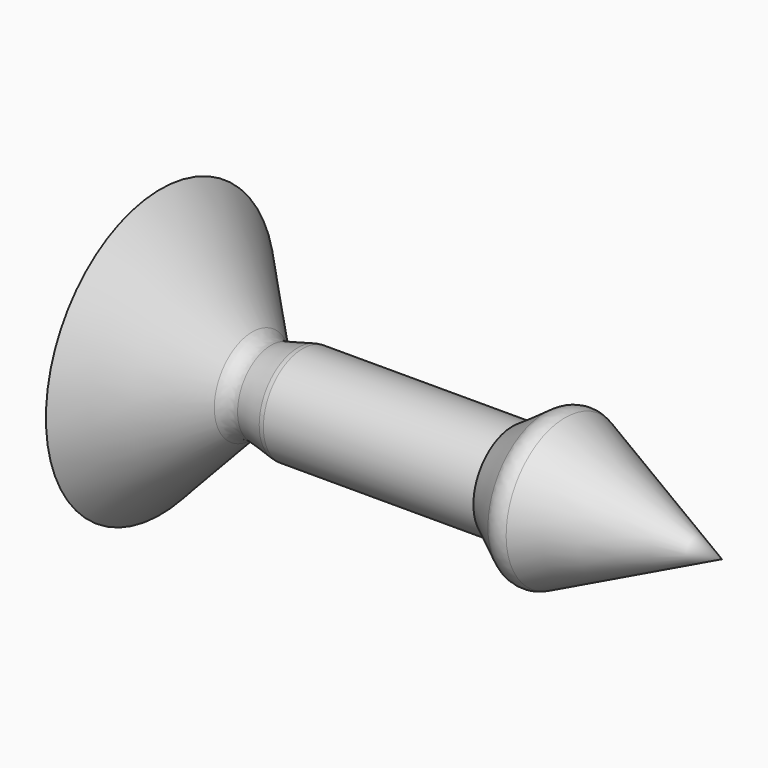
from build123d import *

# Parameters (mm, degrees)
F2_R = 5.08


with BuildPart() as f1:
    # F0 (on Top) → F1 (revolve)
    with BuildSketch(Plane.XY):
        Polygon((-40.960705, 10.16), (-66.756062, 37.145256), (-66.756062, 0), (78.738996, 0), (35.417151, 20.32), (24.482426, 12.7), (-30.547943, 12.7), align=None)
    revolve(axis=Axis((5.991467, 0, 0), (-1, 0, 0)))

    # F2
    f2_edges = [f1.edges().sort_by_distance(p)[0] for p in [
        (-40.960705, -10.16, 0),
        (-30.547943, -12.7, 0),
        (35.417151, -20.32, 0),
    ]]
    fillet(f2_edges, radius=F2_R)


solid = f1.part
